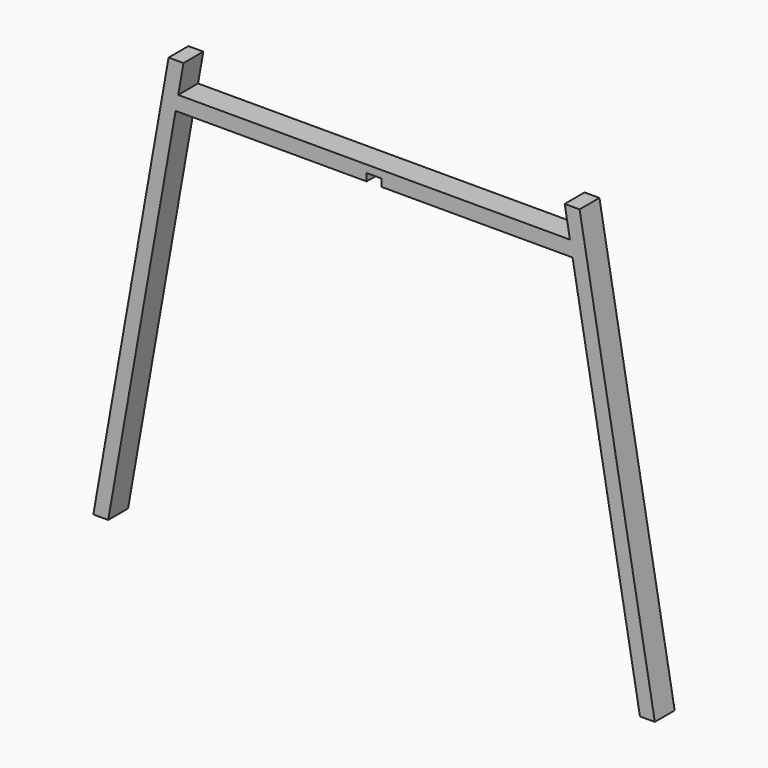
from build123d import *

# Parameters (mm, degrees)
F1_DEPTH = 25
F2_W     = 15
F2_H     = 7.5
F3_DEPTH = 25


with BuildPart() as f1:
    # F0 (on Front) → F1 (new body)
    with BuildSketch(Plane.XZ):
        Polygon((0, 400), (0, 385), (200, 385), (267.885888, 0), (282.885888, 0), (207.065286, 430), (192.065286, 430), (197.355095, 400), align=None)
        Polygon((-207.065286, 430), (-282.885888, 0), (-267.885888, 0), (-200, 385), (0, 385), (0, 400), (-197.355095, 400), (-192.065286, 430), align=None)
    extrude(amount=F1_DEPTH)

    # F2 (on face) → F3 (cut, through all)
    with BuildSketch(Plane.XZ.offset(25)):
        with Locations((0, 388.75)):
            Rectangle(F2_W, F2_H)
    extrude(amount=-F3_DEPTH, mode=Mode.SUBTRACT)


solid = f1.part
